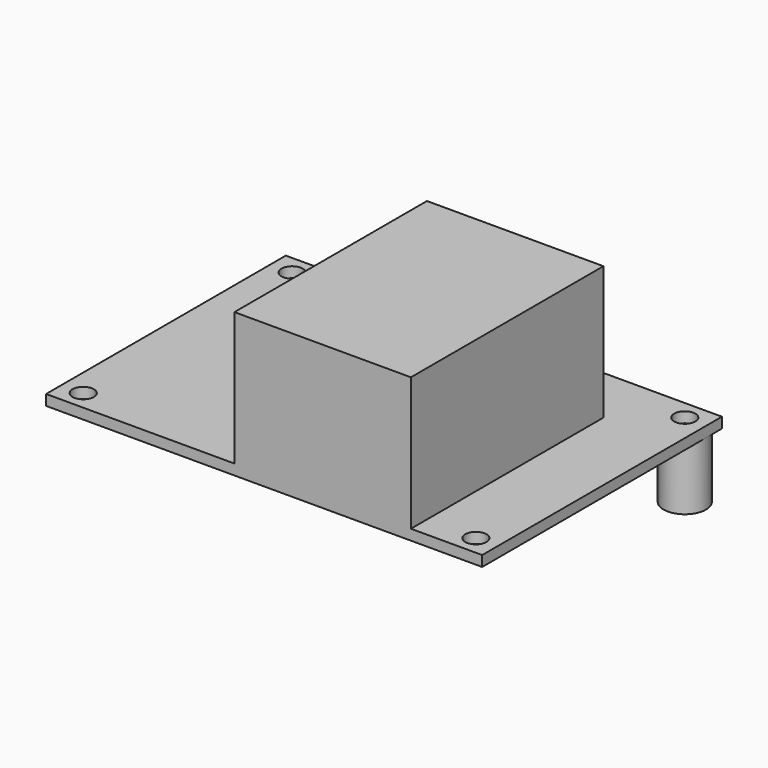
from build123d import *

# Parameters (mm, degrees)
F0_W     = 65.278
F0_H     = 44.8564
F0_R     = 1.5875
F1_DEPTH = 1.5748
F2_W     = 26.416
F2_H     = 36.0172
F3_DEPTH = 21.53
F4_R     = 3.175
F5_DEPTH = 9.525


with BuildPart() as f1:
    # F0 (on Top) → F1 (new body)
    with BuildSketch(Plane.XY):
        Rectangle(F0_W, F0_H)
        with Locations((-29.3878, -19.5453)):
            Circle(F0_R, mode=Mode.SUBTRACT)
        with Locations((29.3878, -19.5453)):
            Circle(F0_R, mode=Mode.SUBTRACT)
        with Locations((-29.3878, 19.5453)):
            Circle(F0_R, mode=Mode.SUBTRACT)
        with Locations((29.3878, 19.5453)):
            Circle(F0_R, mode=Mode.SUBTRACT)
    extrude(amount=F1_DEPTH)

    # F2 (on Top) → F3 (join)
    with BuildSketch(Plane.XY):
        with Locations((8.763, -4.4196)):
            Rectangle(F2_W, F2_H)
    extrude(amount=F3_DEPTH)


with BuildPart() as f5:
    # F4 (on Top) → F5 (new body)
    with BuildSketch(Plane.XY):
        with Locations((29.3878, 19.5453)):
            Circle(F4_R)
    extrude(amount=-F5_DEPTH)


solid = Compound([f1.part, f5.part])
